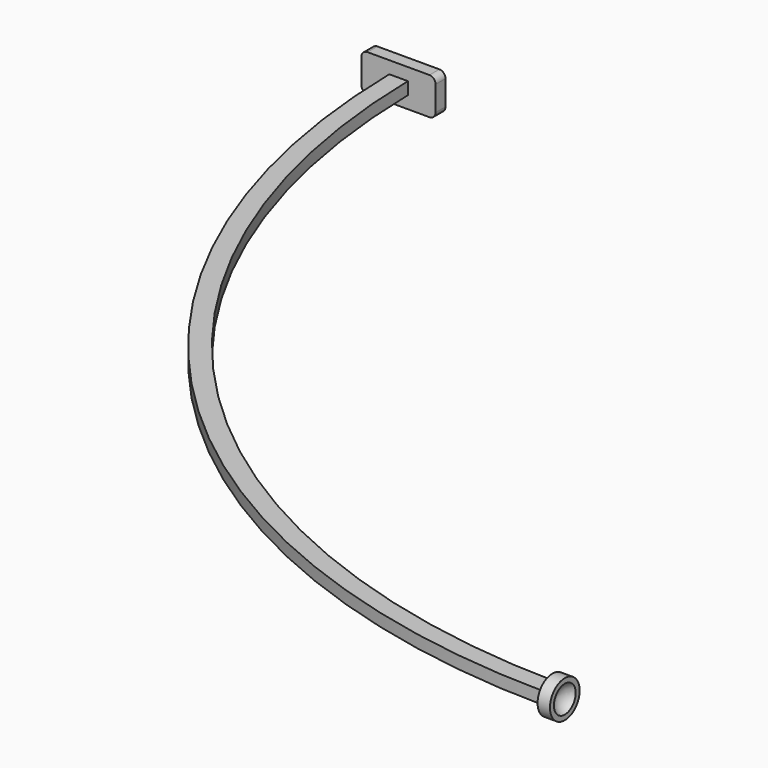
from build123d import *

# Parameters (mm, degrees)
PAD_DEPTH    = 0.25
PAD001_DEPTH = 0.5


with BuildPart() as part:
    # Sketch → Pad (new body, symmetric)
    with BuildSketch(Plane.XY):
        with BuildLine():
            Line((-0.375, 0), (0, 0))
            Line((0, 0), (0.375, 0))
            ThreePointArc((0.375, 0), (9.051962, -20.948038), (30, -29.625))
            Line((30, -29.625), (30, -30.375))
            ThreePointArc((-0.375, 0), (8.521632, -21.478368), (30, -30.375))
        make_face()
    extrude(amount=PAD_DEPTH, both=True)

    # Sketch002 → Pad001 (join)
    with BuildSketch(Plane.XZ):
        with BuildLine():
            ThreePointArc((-1.25, 0.75), (-1.426777, 0.676777), (-1.5, 0.5))
            Line((-1.5, -0.5), (-1.5, 0.5))
            ThreePointArc((-1.5, -0.5), (-1.426777, -0.676777), (-1.25, -0.75))
            Line((1.25, -0.75), (-1.25, -0.75))
            ThreePointArc((1.25, -0.75), (1.426777, -0.676777), (1.5, -0.5))
            Line((1.5, 0.5), (1.5, -0.5))
            ThreePointArc((1.5, 0.5), (1.426777, 0.676777), (1.25, 0.75))
            Line((-1.25, 0.75), (1.25, 0.75))
        make_face()
    extrude(amount=PAD001_DEPTH)

    # Sketch003 (on DatumPlane) → Revolution (revolve)
    with BuildSketch(Plane(origin=(30, -30, 0), x_dir=(1, 0, 0), z_dir=(0, 0, 1))):
        with BuildLine():
            Line((0, 0), (-0.1825, 0))
            Line((-0.1825, 0), (-0.1825, 0.75))
            Line((-0.1825, 0.75), (0.3175, 0.75))
            Line((0.3175, 0.75), (0.3175, 0.549926))
            ThreePointArc((0.3175, 0.549926), (0.085074, 0.3175), (0, 0))
        make_face()
    revolve(axis=Axis((30, -30, 0), (-1, 0, 0)))


solid = part.part
